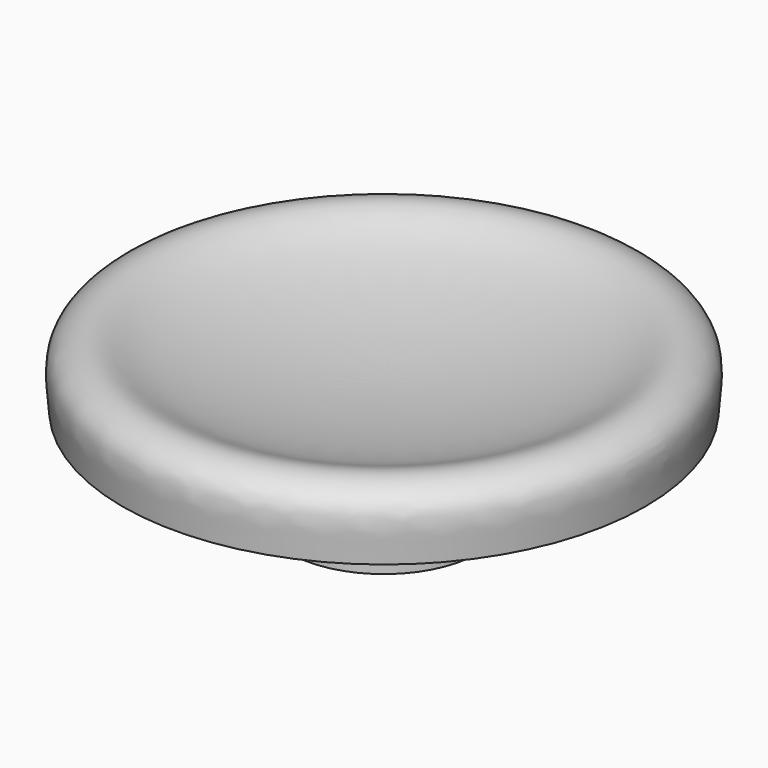
from build123d import *

# Parameters (mm, degrees)
F0_R     = 4
F1_DEPTH = 3
F2_R     = 6
F2_R_2   = 4
F3_DEPTH = 1
F4_DEPTH = 1


with BuildPart() as f1:
    # F0 (on Top) → F1 (new body)
    with BuildSketch(Plane.XY):
        Circle(F0_R)
    extrude(amount=-F1_DEPTH)

    # F2 (on face) → F3 (join)
    with BuildSketch(Plane.XY):
        Circle(F2_R)
        Circle(F2_R_2, mode=Mode.SUBTRACT)
    extrude(amount=F3_DEPTH)

    # F4 (add, through all): a face of the model
    f4_faces = [f1.faces().sort_by_distance(p)[0] for p in [
        (0, 0, 0),
    ]]
    extrude(f4_faces, amount=F4_DEPTH)

    # F5 (on Front) → F6 (revolve)
    with BuildSketch(Plane.XZ):
        with BuildLine():
            Line((0, 2), (0, 1))
            Line((0, 1), (6, 1))
            Line((6, 1), (11, 1))
            add(Edge.make_bspline(
                [(11, 1), (11, 1.65), (11.4449391536, 3.1428787942), (9.6624643848, 4.0264235076), (8.2071766001, 3.1113625007), (5.2842991643, 2.3756880307), (2.2, 2), (0, 2)],
                knots=[0, 0, 0, 0, 0.1786214578, 0.3311174273, 0.4899368576, 0.7031797056, 1, 1, 1, 1], degree=3))
        make_face()
    revolve(axis=Axis((0, 0, 1.5), (0, 0, 1)))


solid = f1.part
